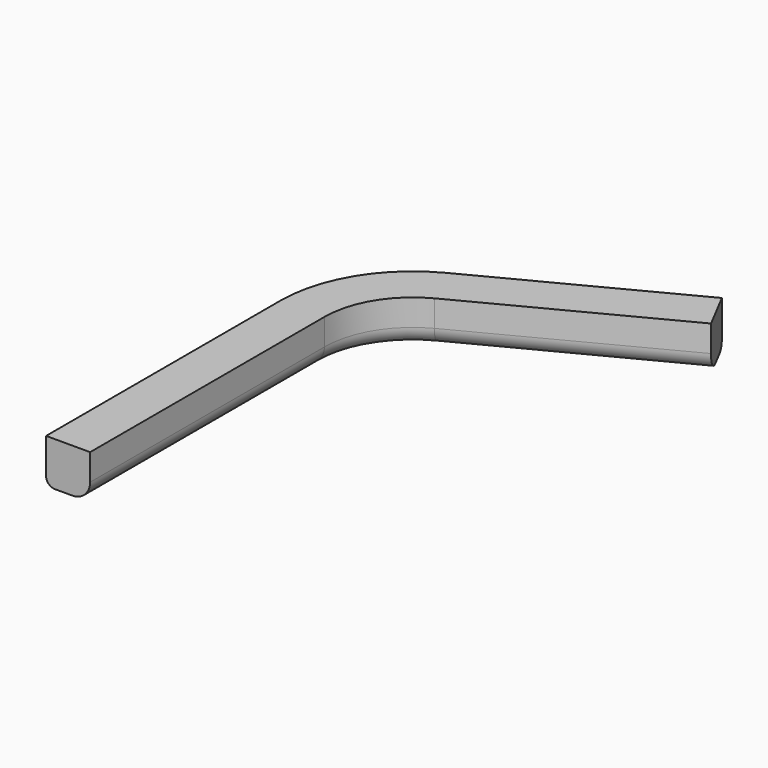
from build123d import *

# Parameters (mm, degrees)
F1_DEPTH = 5
F2_R     = 2
F3_R     = 1


with BuildPart() as f1:
    # F0 (on Top) → F1 (new body)
    with BuildSketch(Plane.XY):
        with BuildLine():
            Line((-60.498083, 0), (-55.498083, 0))
            Line((-55.498083, 0), (-55.498083, 33.258991))
            ThreePointArc((-55.498083, 33.258991), (-54.047202, 38.446723), (-50.115569, 42.129099))
            Line((-50.115569, 42.129099), (-27.940299, 53.672814))
            Line((-27.940299, 53.672814), (-30.249042, 58.107868))
            Line((-30.249042, 58.107868), (-52.424312, 46.564153))
            ThreePointArc((-52.424312, 46.564153), (-58.321761, 41.040589), (-60.498083, 33.258991))
            Line((-60.498083, 33.258991), (-60.498083, 0))
        make_face()
    extrude(amount=F1_DEPTH)

    # F2
    f2_edges = [f1.edges().sort_by_distance(p)[0] for p in [
        (-55.498083, 16.629495, 0),
    ]]
    fillet(f2_edges, radius=F2_R)

    # F3
    f3_edges = [f1.edges().sort_by_distance(p)[0] for p in [
        (-60.498083, 16.629495, 0),
    ]]
    fillet(f3_edges, radius=F3_R)


solid = f1.part
